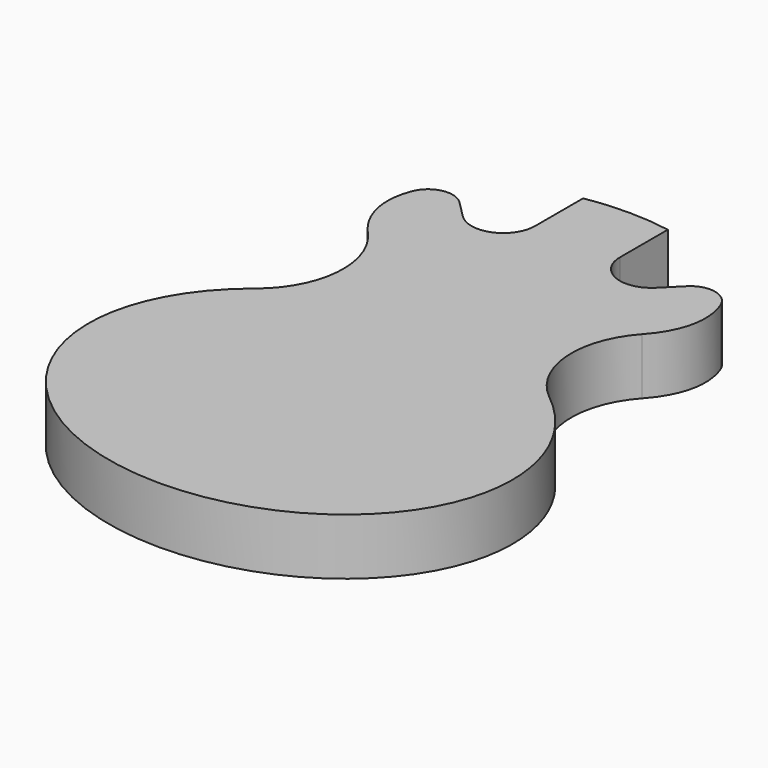
from build123d import *

# Parameters (mm, degrees)
F1_DEPTH = 40
F3_DEPTH = 40.0010001


with BuildPart() as f1:
    # F0 (on Top) → F1 (new body)
    with BuildSketch(Plane.XY):
        with BuildLine():
            ThreePointArc((-97.0099194342, 305.7874443929), (-80.9065160677, 258.8749010222), (-104.0733554835, 215.0182723673))
            add(Edge.make_bspline(
                [(-104.0733554835, 215.0182723673), (-371.8847042675, 0), (0, 0)],
                knots=[2.3375796713, 2.3375796713, 2.3375796713, 4.7123889804, 4.7123889804, 4.7123889804], degree=2, weights=[1, 0.374068056, 1]))
            add(Edge.make_bspline(
                [(0, 0), (371.8847042675, 0), (104.0733554835, 215.0182723673)],
                knots=[4.7123889804, 4.7123889804, 4.7123889804, 7.0871982895, 7.0871982895, 7.0871982895], degree=2, weights=[1, 0.374068056, 1]))
            ThreePointArc((104.0733554835, 215.0182723673), (80.9065160677, 258.8749010222), (97.0099194342, 305.7874443929))
            add(Edge.make_bspline(
                [(97.0099194342, 305.7874443929), (196.5275609444, 415), (0, 415)],
                knots=[5.7522036511, 5.7522036511, 5.7522036511, 7.853981634, 7.853981634, 7.853981634], degree=2, weights=[1, 0.4967997195, 1]))
            add(Edge.make_bspline(
                [(0, 415), (-196.5275609444, 415), (-97.0099194342, 305.7874443929)],
                knots=[4.7123889804, 4.7123889804, 4.7123889804, 6.8141669633, 6.8141669633, 6.8141669633], degree=2, weights=[1, 0.4967997195, 1]))
        make_face()
    extrude(amount=F1_DEPTH)

    # F2 (on face) → F3 (cut, through all)
    with BuildSketch(Plane.XY.offset(40)):
        with BuildLine():
            Line((87.8338262206, 415), (30, 415))
            Line((30, 415), (30, 370))
            ThreePointArc((30, 370), (43.8896227718, 349.2127105185), (68.4099025767, 354.0900974233))
            Line((68.4099025767, 354.0900974233), (80.4505992859, 366.1307941325))
            ThreePointArc((80.4505992859, 366.1307941325), (96.4326430451, 370.8805219476), (109.1399705343, 360.0865669209))
            Line((109.1399705343, 360.0865669209), (87.8338262206, 415))
        make_face()
        with BuildLine():
            Line((-30, 370), (-30, 415))
            Line((-30, 415), (-87.8338262206, 415))
            Line((-87.8338262206, 415), (-109.1399705343, 360.0865669209))
            ThreePointArc((-109.1399705343, 360.0865669209), (-96.4326430451, 370.8805219476), (-80.4505992859, 366.1307941325))
            Line((-80.4505992859, 366.1307941325), (-68.4099025767, 354.0900974233))
            ThreePointArc((-68.4099025767, 354.0900974233), (-43.8896227718, 349.2127105185), (-30, 370))
        make_face()
    extrude(amount=-F3_DEPTH, mode=Mode.SUBTRACT)


solid = f1.part
